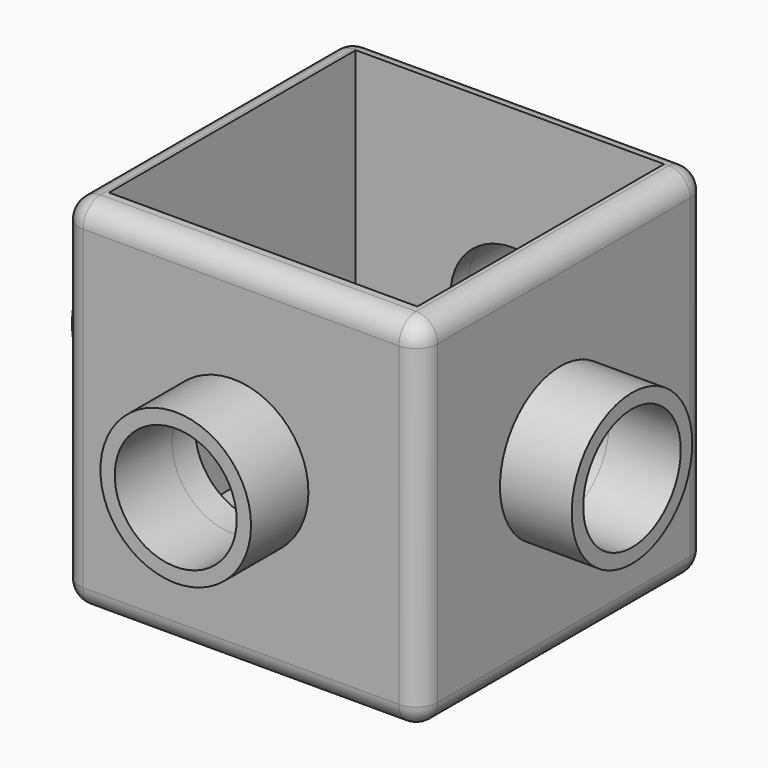
from build123d import *

# Parameters (mm, degrees)
F0_W      = 50
F0_H      = 50
F1_DEPTH  = 50
F3_W      = 43
F3_H      = 43
F4_DEPTH  = 45
F5_R      = 8.5
F6_DEPTH  = 10
F7_R      = 8.5
F8_DEPTH  = 7
F9_R      = 8.5
F10_DEPTH = 7
F11_R     = 8.5
F12_DEPTH = 7
F13_R     = 10.5
F13_R_2   = 8.5
F14_DEPTH = 10
F15_R     = 10.5
F15_R_2   = 8.5
F16_DEPTH = 10
F17_R     = 10.5
F17_R_2   = 8.5
F18_DEPTH = 10
F19_R     = 10.5
F19_R_2   = 8.5
F20_DEPTH = 10
F21_R     = 3
F22_R     = 3
F23_R     = 3
F24_R     = 3
F25_R     = 3


with BuildPart() as f1:
    # F0 (on Top) → F1 (new body)
    with BuildSketch(Plane.XY):
        with Locations((-30.4429776967, -35.9135664999)):
            Rectangle(F0_W, F0_H)
    extrude(amount=F1_DEPTH)

    # F3 (on face) → F4 (cut)
    with BuildSketch(Plane.XY.offset(50)):
        with Locations((-30.5554636419, -35.4178263461)):
            Rectangle(F3_W, F3_H)
    extrude(amount=-F4_DEPTH, mode=Mode.SUBTRACT)

    # F5 (on face) → F6 (cut)
    with BuildSketch(Plane.XZ.offset(60.9135664999)):
        with Locations((-31.549949199, 24.9167550355)):
            Circle(F5_R)
    extrude(amount=-F6_DEPTH, mode=Mode.SUBTRACT)

    # F7 (on face) → F8 (cut)
    with BuildSketch(Plane.YZ.offset(-5.4429776967)):
        with Locations((-36.5383811295, 25.0675398856)):
            Circle(F7_R)
    extrude(amount=-F8_DEPTH, mode=Mode.SUBTRACT)

    # F9 (on face) → F10 (cut)
    with BuildSketch(Plane(origin=(0, -10.9135664999, 0), x_dir=(-1, 0, 0), z_dir=(0, 1, 0))):
        with Locations((30.3248297423, 24.3921522051)):
            Circle(F9_R)
    extrude(amount=-F10_DEPTH, mode=Mode.SUBTRACT)

    # F11 (on face) → F12 (cut)
    with BuildSketch(Plane(origin=(-55.4429776967, 0, 0), x_dir=(0, -1, 0), z_dir=(-1, 0, 0))):
        with Locations((36.1331477761, 25.3376942128)):
            Circle(F11_R)
    extrude(amount=-F12_DEPTH, mode=Mode.SUBTRACT)

    # F13 (on face) → F14 (join)
    with BuildSketch(Plane(origin=(-55.4429776967, 0, 0), x_dir=(0, -1, 0), z_dir=(-1, 0, 0))):
        with Locations((36.1331477761, 25.3376942128)):
            Circle(F13_R)
        with Locations((36.1331477761, 25.3376942128)):
            Circle(F13_R_2, mode=Mode.SUBTRACT)
    extrude(amount=F14_DEPTH)

    # F15 (on face) → F16 (join)
    with BuildSketch(Plane.XZ.offset(60.9135664999)):
        with Locations((-31.549949199, 24.9167550355)):
            Circle(F15_R)
        with Locations((-31.549949199, 24.9167550355)):
            Circle(F15_R_2, mode=Mode.SUBTRACT)
    extrude(amount=F16_DEPTH)

    # F17 (on face) → F18 (join)
    with BuildSketch(Plane.YZ.offset(-5.4429776967)):
        with Locations((-36.5383811295, 25.0675398856)):
            Circle(F17_R)
        with Locations((-36.5383811295, 25.0675398856)):
            Circle(F17_R_2, mode=Mode.SUBTRACT)
    extrude(amount=F18_DEPTH)

    # F19 (on face) → F20 (join)
    with BuildSketch(Plane(origin=(0, -10.9135664999, 0), x_dir=(-1, 0, 0), z_dir=(0, 1, 0))):
        with Locations((30.3248297423, 24.3921522051)):
            Circle(F19_R)
        with Locations((30.3248297423, 24.3921522051)):
            Circle(F19_R_2, mode=Mode.SUBTRACT)
    extrude(amount=F20_DEPTH)

    # F21
    f21_edges = [f1.edges().sort_by_distance(p)[0] for p in [
        (-5.442978, -35.913566, 50),
    ]]
    fillet(f21_edges, radius=F21_R)

    # F22
    f22_edges = [f1.edges().sort_by_distance(p)[0] for p in [
        (-31.942978, -10.913566, 50),
    ]]
    fillet(f22_edges, radius=F22_R)

    # F23
    f23_edges = [f1.edges().sort_by_distance(p)[0] for p in [
        (-31.942978, -60.913566, 50),
    ]]
    fillet(f23_edges, radius=F23_R)

    # F24
    f24_edges = [f1.edges().sort_by_distance(p)[0] for p in [
        (-55.442978, -35.913566, 50),
    ]]
    fillet(f24_edges, radius=F24_R)

    # F25
    f25_edges = [f1.edges().sort_by_distance(p)[0] for p in [
        (-30.442978, -60.913566, 0),
    ]]
    fillet(f25_edges, radius=F25_R)


solid = f1.part
